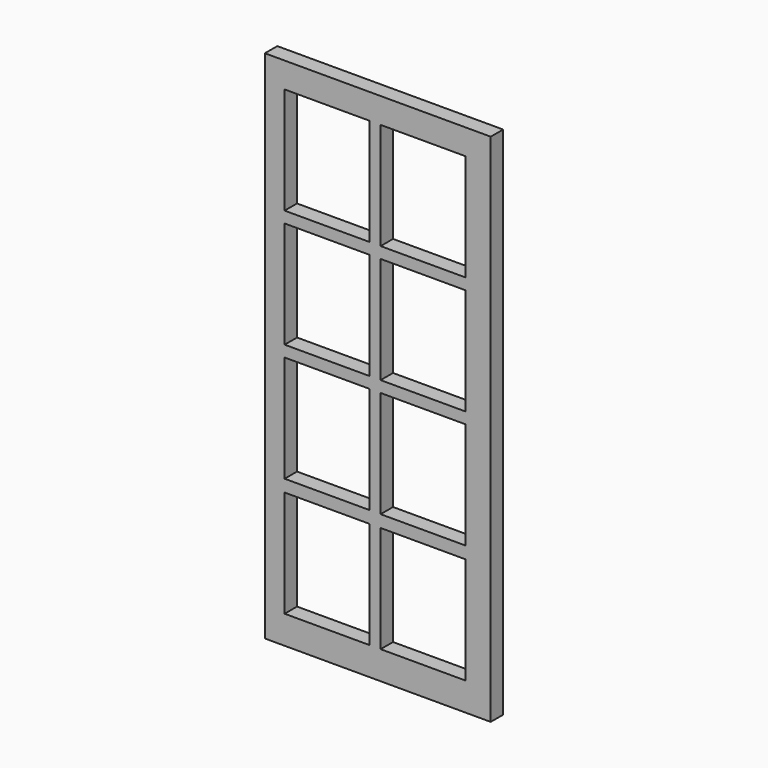
from build123d import *

# Parameters (mm, degrees)
F0_W     = 508
F0_H     = 1158.875
F0_W_2   = 190.5
F0_H_2   = 240.03
F1_DEPTH = 34.925


with BuildPart() as f1:
    # F0 (on Front) → F1 (new body)
    with BuildSketch(Plane.XZ):
        with Locations((254, 579.4375)):
            Rectangle(F0_W, F0_H)
        with Locations((139.7, 183.515)):
            Rectangle(F0_W_2, F0_H_2, mode=Mode.SUBTRACT)
        with Locations((139.7, 450.85)):
            Rectangle(F0_W_2, F0_H_2, mode=Mode.SUBTRACT)
        with Locations((355.6, 183.515)):
            Rectangle(F0_W_2, F0_H_2, mode=Mode.SUBTRACT)
        with Locations((355.6, 450.85)):
            Rectangle(F0_W_2, F0_H_2, mode=Mode.SUBTRACT)
        with Locations((139.7, 716.28)):
            Rectangle(F0_W_2, F0_H_2, mode=Mode.SUBTRACT)
        with Locations((139.7, 981.71)):
            Rectangle(F0_W_2, F0_H_2, mode=Mode.SUBTRACT)
        with Locations((355.6, 716.28)):
            Rectangle(F0_W_2, F0_H_2, mode=Mode.SUBTRACT)
        with Locations((355.6, 981.71)):
            Rectangle(F0_W_2, F0_H_2, mode=Mode.SUBTRACT)
    extrude(amount=F1_DEPTH)


solid = f1.part
